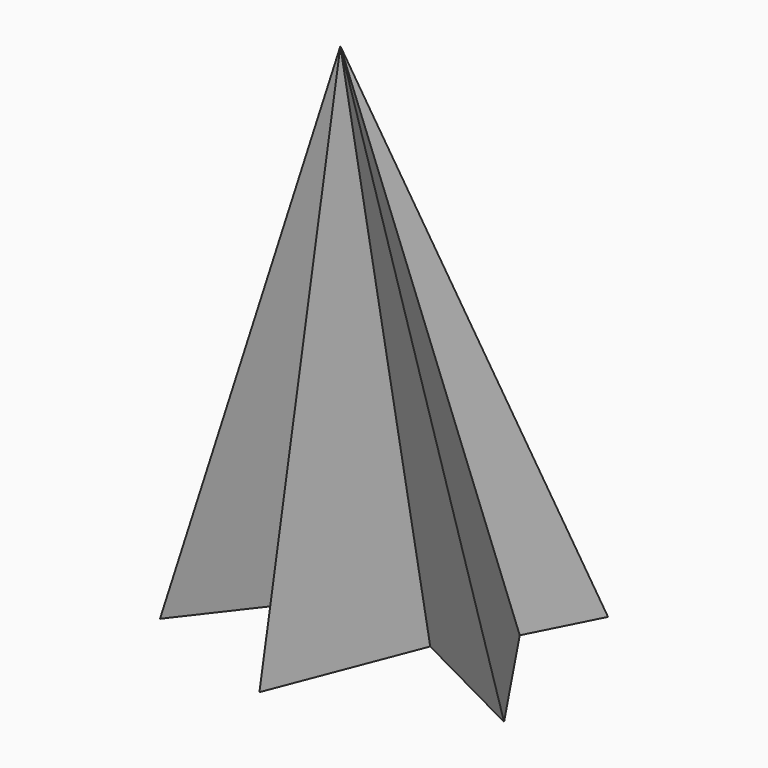
from build123d import *


with BuildPart() as f3:
    # F0 (on Top) → F3 section 0
    with BuildSketch(Plane.XY, mode=Mode.PRIVATE) as f3_s0:
        Polygon((-47.688171, 47.806267), (-67.121834, 9.70584), (-72.229996, -52.108184), (-39.03887, -9.052839), (-9.768937, -73.99904), (15.477421, -9.052839), (71.840197, -37.801471), (34.815956, 17.355996), (50.347548, 47.806267), (9.988855, 21.649893), (-9.729384, 47.806267), (-31.556629, 21.649893), align=None)
    loft([f3_s0.sketch, Vertex(8.825648, -51.505208, 254)])


solid = f3.part
